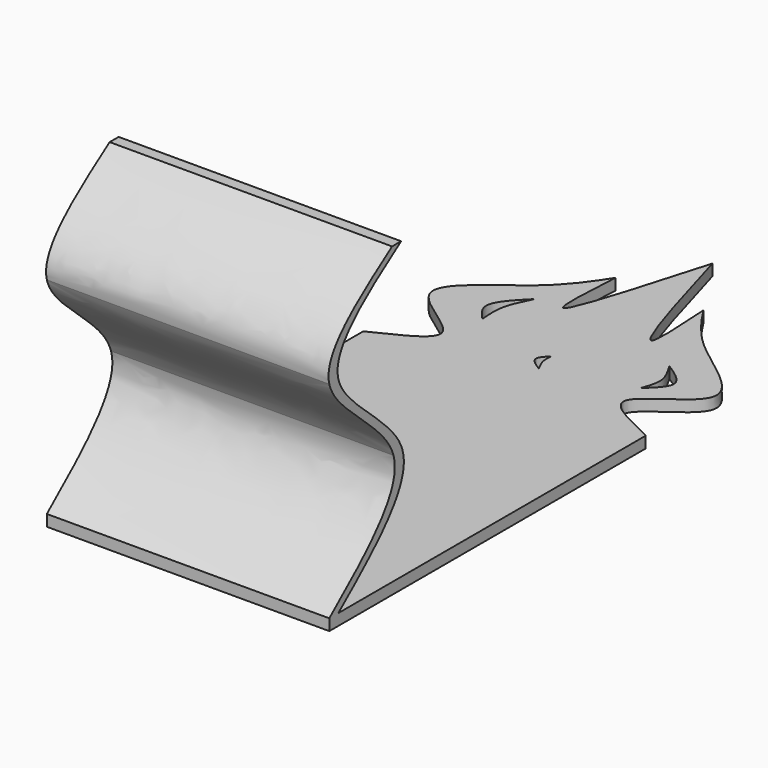
from build123d import *

# Parameters (mm, degrees)
F1_DEPTH = 2.54
F3_DEPTH = 63.5


with BuildPart() as f1:
    # F0 (on Top) → F1 (new body)
    with BuildSketch(Plane.XY):
        with BuildLine():
            Line((-31.75, -83.6839513757), (31.75, -83.6839513778))
            Line((31.75, -83.6839513778), (31.75, 5.2160486222))
            add(Edge.make_bspline(
                [(31.75, 5.2160486243), (25.7086750977, 8.2095040737), (13.2919018227, 13.2612920956), (40.4686708732, 24.151033206), (17.1693446816, 37.3717586227), (12.2441961548, 45.1813499568), (9.8845292789, 48.7718827984)],
                knots=[0, 0, 0, 0, 0.2366640156, 0.4851512444, 0.756842013, 1, 1, 1, 1], degree=3))
            add(Edge.make_bspline(
                [(9.8845292789, 48.7718827984), (10.3444855628, 41.5162894514), (11.4748144078, 23.6858829352), (4.2718916672, 48.7681543781), (0, 63.6438973943)],
                knots=[0, 0, 0, 0, 0.4069224168, 1, 1, 1, 1], degree=3))
            add(Edge.make_bspline(
                [(-9.8845292789, 48.7718827984), (-10.3444855628, 41.5162894514), (-11.4748144078, 23.6858829352), (-4.2718916672, 48.7681543781), (0, 63.6438973943)],
                knots=[0, 0, 0, 0, 0.4069224168, 1, 1, 1, 1], degree=3))
            add(Edge.make_bspline(
                [(-31.75, 5.2160486243), (-25.7086750977, 8.2095040737), (-13.2919018227, 13.2612920956), (-40.4686708732, 24.151033206), (-17.1693446816, 37.3717586227), (-12.2441961548, 45.1813499568), (-9.8845292789, 48.7718827984)],
                knots=[0, 0, 0, 0, 0.2366640156, 0.4851512444, 0.756842013, 1, 1, 1, 1], degree=3))
            Line((-31.75, 5.2160486243), (-31.75, -83.6839513757))
        make_face()
        with BuildLine():
            add(Edge.make_bspline(
                [(0, 18.4377846975), (-0.8402767268, 17.5937250168), (-2.6308980883, 15.7950420042), (-0.1427417595, 14.228570259), (1.1778091829, 13.3971894932)],
                knots=[0, 0, 0, 0, 0.4692654392, 1, 1, 1, 1], degree=3))
            add(Edge.make_bspline(
                [(0, 18.4377846975), (-0.0824907332, 17.6625700732), (-0.2575054179, 16.0178521281), (0.6814285359, 14.3035037553), (1.1778091829, 13.3971894932)],
                knots=[0, 0, 0, 0, 0.471335989, 1, 1, 1, 1], degree=3))
        make_face(mode=Mode.SUBTRACT)
        with BuildLine():
            add(Edge.make_bspline(
                [(-15.9456048132, 33.5736688751), (-16.9306722249, 31.6219338837), (-18.8522437067, 27.8146830449), (-18.5188141617, 23.8680684012), (-18.3563127499, 21.9446315956)],
                knots=[0, 0, 0, 0, 0.5126363558, 1, 1, 1, 1], degree=3))
            add(Edge.make_bspline(
                [(-18.3563127499, 21.9446315956), (-19.7054262057, 23.386298555), (-22.7926148104, 26.6852777417), (-18.411919139, 31.0924491189), (-15.9456048132, 33.5736688751)],
                knots=[0, 0, 0, 0, 0.4370039013, 1, 1, 1, 1], degree=3))
        make_face(mode=Mode.SUBTRACT)
        with BuildLine():
            add(Edge.make_bspline(
                [(18.4678306852, 28.4819673923), (19.427421291, 26.8806889301), (21.1201724035, 24.0559786368), (20.4629903584, 20.881000871), (19.9780060806, 19.4686195152), (19.7560574985, 18.8222556485)],
                knots=[0, 0, 0, 0, 0.4151573771, 0.7323521239, 1, 1, 1, 1], degree=3))
            add(Edge.make_bspline(
                [(18.4678306852, 28.4819673923), (20.8235774768, 26.9635696387), (25.4215767631, 23.9999267161), (21.6132297579, 20.51951007), (19.7560574985, 18.8222556485)],
                knots=[0, 0, 0, 0, 0.5123416723, 1, 1, 1, 1], degree=3))
        make_face(mode=Mode.SUBTRACT)
    extrude(amount=F1_DEPTH)

    # F2 (on face) → F3 (join)
    with BuildSketch(Plane.YZ.offset(31.75)):
        with BuildLine():
            add(Edge.make_bspline(
                [(-65.6484358175, 27.4432951095), (-67.9772508721, 34.9822299474), (-81.8557368461, 41.970962749), (-83.6839513778, 48.8775275409)],
                knots=[0.3464011194, 0.3464011194, 0.3464011194, 0.3464011194, 0.6770339361, 0.6770339361, 0.6770339361, 0.6770339361], degree=3))
            Line((-65.6484358175, 27.4432951095), (-63.1084358175, 27.4432951095))
            add(Edge.make_bspline(
                [(-81.1439513778, 48.8775275409), (-79.3157352707, 41.9709626757), (-65.4372513089, 34.9822301927), (-63.1084358175, 27.4432951095)],
                knots=[0.3229660639, 0.3229660639, 0.3229660639, 0.3229660639, 0.6535988806, 0.6535988806, 0.6535988806, 0.6535988806], degree=3))
            Line((-81.1439513778, 48.8775275409), (-83.6839513778, 48.8775275409))
        make_face()
        with BuildLine():
            add(Edge.make_bspline(
                [(-83.6839513778, 48.8775275409), (-85.4697730551, 55.6239420932), (-75.7576902273, 62.2919550981), (-66.0456140927, 68.9599682055)],
                knots=[0.6770339361, 0.6770339361, 0.6770339361, 0.6770339361, 1, 1, 1, 1], degree=3))
            Line((-83.6839513778, 48.8775275409), (-81.1439513778, 48.8775275409))
            add(Edge.make_bspline(
                [(-63.5056140927, 68.9599682055), (-73.2176967282, 62.2919556151), (-82.929774594, 55.6239421648), (-81.1439513778, 48.8775275409)],
                knots=[0, 0, 0, 0, 0.3229660639, 0.3229660639, 0.3229660639, 0.3229660639], degree=3))
            Line((-63.5056140927, 68.9599682055), (-66.0456140927, 68.9599682055))
        make_face()
        with BuildLine():
            add(Edge.make_bspline(
                [(-83.6839513778, 2.54), (-73.4462547351, 11.0424093805), (-63.2085565888, 19.5448188091), (-65.6484358175, 27.4432951095)],
                knots=[0, 0, 0, 0, 0.3464011194, 0.3464011194, 0.3464011194, 0.3464011194], degree=3))
            Line((-83.6839513778, 2.54), (-81.1439513778, 2.54))
            add(Edge.make_bspline(
                [(-63.1084358175, 27.4432951095), (-60.6685561312, 19.5448185522), (-70.9062511318, 11.0424082477), (-81.1439513778, 2.54)],
                knots=[0.6535988806, 0.6535988806, 0.6535988806, 0.6535988806, 1, 1, 1, 1], degree=3))
            Line((-63.1084358175, 27.4432951095), (-65.6484358175, 27.4432951095))
        make_face()
    extrude(amount=-F3_DEPTH)


solid = f1.part
